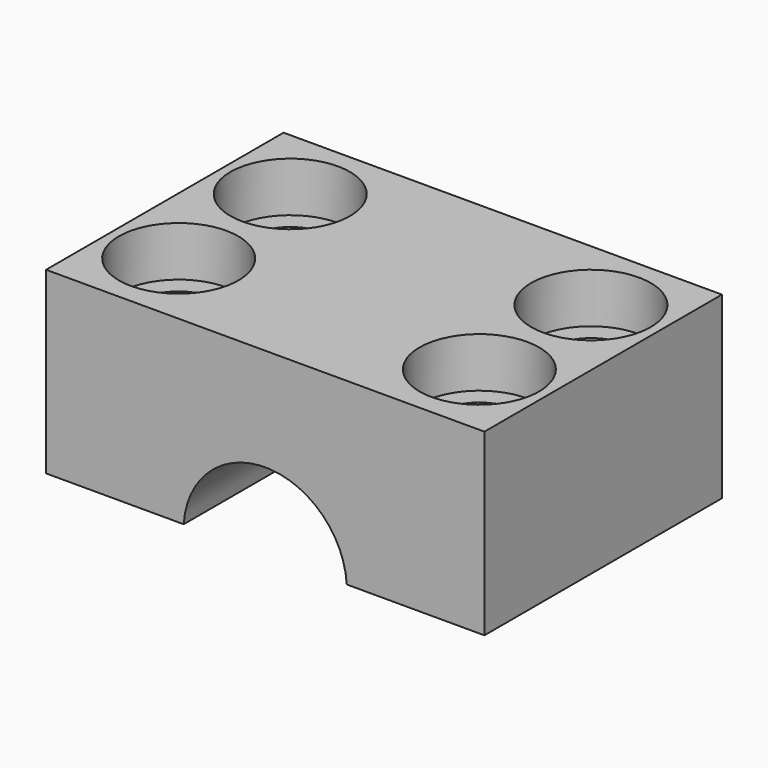
from build123d import *

# Parameters (mm, degrees)
PAD016_DEPTH            = 14.9
SKETCH037_R             = 2
POCKET017_DEPTH         = 9.251
SKETCH038_R             = 3
POCKET018_DEPTH         = 2.5
BODY022_PLACEMENT_ANGLE = 180


with BuildPart() as part:
    # Sketch036 (on DatumPlane) → Pad016 (new body)
    with BuildSketch(Plane.XZ.offset(9.9)):
        with BuildLine():
            Line((-22, -0.25), (-22, -9.25))
            Line((-22, -9.25), (0, -9.25))
            Line((0, -9.25), (0, -0.25))
            Line((-6.907629, -0.25), (0, -0.25))
            ThreePointArc((-15.092371, -0.25), (-11, -4.1), (-6.907629, -0.25))
            Line((-15.092371, -0.25), (-22, -0.25))
        make_face()
    extrude(amount=PAD016_DEPTH)

    # Sketch037 → Pocket017 (cut, through all)
    with BuildSketch(Plane.XY):
        with Locations((-18.546185, -13.8)):
            Circle(SKETCH037_R)
        with Locations((-18.546185, -20.8)):
            Circle(SKETCH037_R)
        with Locations((-3.453815, -20.8)):
            Circle(SKETCH037_R)
        with Locations((-3.453815, -13.8)):
            Circle(SKETCH037_R)
    extrude(amount=-POCKET017_DEPTH, mode=Mode.SUBTRACT)

    # Sketch038 (on DatumPlane) → Pocket018 (cut)
    with BuildSketch(Plane.XY.offset(-9.25)):
        with Locations((-18.546185, -13.8)):
            Circle(SKETCH038_R)
        with Locations((-18.546185, -20.8)):
            Circle(SKETCH038_R)
        with Locations((-3.453815, -13.8)):
            Circle(SKETCH038_R)
        with Locations((-3.453815, -20.8)):
            Circle(SKETCH038_R)
    extrude(amount=POCKET018_DEPTH, mode=Mode.SUBTRACT)


with BuildPart() as part_1:
    # Body022 placement: moved
    add(part.part.moved(Location((-22, 0, -0.25))).rotate(Axis((-22, 0, -0.25), (0, 1, 0)), BODY022_PLACEMENT_ANGLE))


solid = part_1.part
